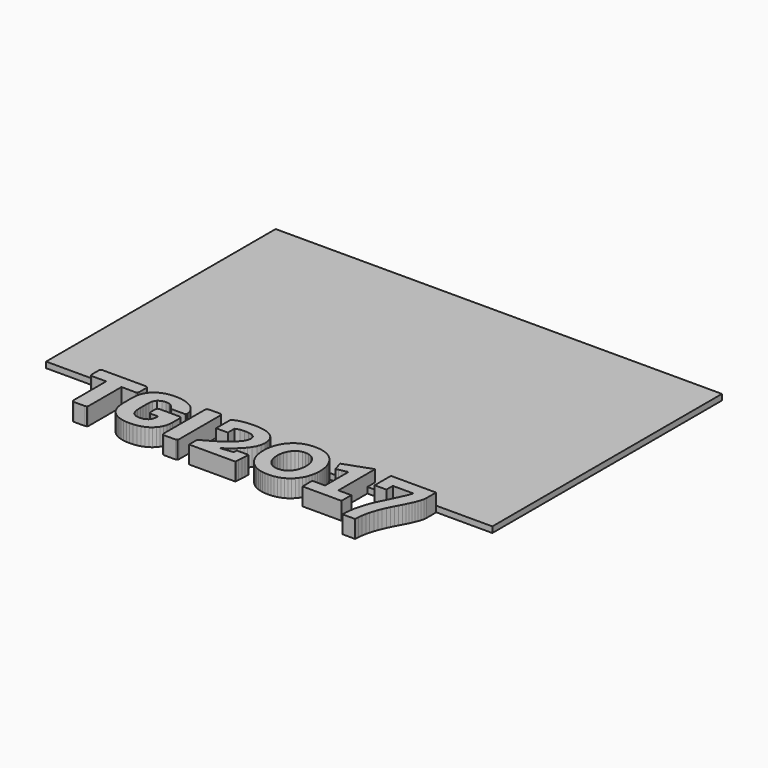
from build123d import *

# Parameters (mm, degrees)
F0_W     = 55.88
F0_H     = 1.5
F1_DEPTH = 1
F3_DEPTH = 3


with BuildPart() as f1:
    # F0 (on Top) → F1 (new body)
    with BuildSketch(Plane.XY):
        Polygon((38.1, -24.5), (38.1, 24.5), (-38.1, 24.5), (-38.1, -24.5), (-27.94, -24.5), (-27.94, -23), (27.94, -23), (27.94, -24.5), align=None)
        with Locations((0, -23.75)):
            Rectangle(F0_W, F0_H)
        with Locations((0, -25.25)):
            Rectangle(F0_W, F0_H)
    extrude(amount=F1_DEPTH)

    # F2 (on Top) → F3 (join)
    with BuildSketch(Plane.XY):
        Polygon((-25.8621358056, -33.9583140133), (-25.7601548056, -34.2036272133), (-25.5065866056, -34.2986994133), (-25.0325464056, -34.2986994133), (-24.5585062056, -34.2986994133), (-24.0844406056, -34.2986994133), (-23.6090542056, -34.2986994133), (-23.3568576056, -34.2036272133), (-23.2549020056, -33.9583140133), (-23.2549020056, -33.7695412133), (-23.2549020056, -33.2596362133), (-23.2549020056, -32.5596122133), (-23.2549020056, -31.8609598133), (-23.2549020056, -31.1622820133), (-23.2549020056, -30.4636296133), (-23.2549020056, -29.7635802133), (-23.2549020056, -29.0649024133), (-23.2549020056, -28.3662500133), (-23.2549020056, -27.6675976133), (-23.2549020056, -27.1563464133), (-23.2549020056, -26.9689198133), (-23.0840108056, -26.9689198133), (-22.6540396056, -26.9689198133), (-22.0532280056, -26.9689198133), (-21.4524164056, -26.9689198133), (-21.0238168056, -26.9689198133), (-20.8516048056, -26.9689198133), (-20.5993828056, -26.8724506133), (-20.4974526056, -26.6271628133), (-20.4974526056, -26.3873868133), (-20.4974526056, -25.8623434133), (-20.4974526056, -25.3373000133), (-20.4974526056, -25.0988956133), (-20.5993828056, -24.8453528133), (-20.8516048056, -24.7433718133), (-21.4703234056, -24.7433718133), (-22.0876958056, -24.7433718133), (-22.7050428056, -24.7433718133), (-23.3237868056, -24.7433718133), (-23.9411592056, -24.7433718133), (-24.5585062056, -24.7433718133), (-25.1758786056, -24.7433718133), (-25.7945972056, -24.7433718133), (-26.4119696056, -24.7433718133), (-27.0293420056, -24.7433718133), (-27.6466890056, -24.7433718133), (-28.2640614056, -24.7433718133), (-28.5176042056, -24.8453528133), (-28.6195852056, -25.0988956133), (-28.6195852056, -25.3373000133), (-28.6195852056, -25.8623434133), (-28.6195852056, -26.3873868133), (-28.6195852056, -26.6271628133), (-28.5176042056, -26.8724506133), (-28.2640614056, -26.9689198133), (-28.0945418056, -26.9689198133), (-27.6632244056, -26.9689198133), (-27.0637844056, -26.9689198133), (-26.4629474056, -26.9689198133), (-26.0343732056, -26.9689198133), (-25.8621358056, -26.9689198133), (-25.8621358056, -27.1563464133), (-25.8621358056, -27.6675976133), (-25.8621358056, -28.3662500133), (-25.8621358056, -29.0649024133), (-25.8621358056, -29.7635802133), (-25.8621358056, -30.4636296133), (-25.8621358056, -31.1622820133), (-25.8621358056, -31.8609598133), (-25.8621358056, -32.5596122133), (-25.8621358056, -33.2596362133), (-25.8621358056, -33.7695412133), align=None)
        Polygon((-19.3481280056, -33.1080998133), (-18.9870924056, -33.4732502133), (-18.5406112056, -33.7984718133), (-18.0486640056, -34.0506430133), (-17.5277608056, -34.2325578133), (-16.9875536056, -34.3510742133), (-16.4391168056, -34.4158442133), (-15.8879114056, -34.4351228133), (-15.2994696056, -34.4117040133), (-14.7165396056, -34.3359104133), (-14.1446586056, -34.1981154133), (-13.5948502056, -33.9914102133), (-13.1483436056, -33.7557490133), (-12.7377018056, -33.4622520133), (-12.3766408056, -33.1108430133), (-12.0720948056, -32.7084308133), (-11.8254354056, -32.2454142133), (-11.6573128056, -31.7493268133), (-11.5622152056, -31.2325892133), (-11.5332846056, -30.7089174133), (-11.5332846056, -30.4608864133), (-11.5332846056, -29.9165390133), (-11.5332846056, -29.3722170133), (-11.5332846056, -29.1255322133), (-11.6352656056, -28.8733864133), (-11.8874368056, -28.7700084133), (-12.4662012056, -28.7700084133), (-13.0436448056, -28.7700084133), (-13.6210376056, -28.7700084133), (-14.1998020056, -28.7700084133), (-14.7771948056, -28.7700084133), (-15.3559592056, -28.7700084133), (-15.6081558056, -28.8733864133), (-15.7101114056, -29.1255322133), (-15.7101114056, -29.2908862133), (-15.7101114056, -29.6574590133), (-15.7101114056, -30.0226602133), (-15.7101114056, -30.1907574133), (-15.6081558056, -30.4429540133), (-15.3559592056, -30.5449096133), (-15.1658148056, -30.5449096133), (-14.7482642056, -30.5449096133), (-14.3307136056, -30.5449096133), (-14.1405184056, -30.5449096133), (-14.1405184056, -30.6675662133), (-14.1405184056, -30.7901974133), (-14.2383846056, -31.4461524133), (-14.6049320056, -31.9918714133), (-15.1947454056, -32.3019292133), (-15.8603270056, -32.3873748133), (-16.5355606056, -32.2909056133), (-17.1060954056, -31.9284730133), (-17.4271514056, -31.3304046133), (-17.5263892056, -30.6537740133), (-17.5373874056, -30.0612174133), (-17.5401306056, -29.4672892133), (-17.5373874056, -28.8788728133), (-17.5263892056, -28.2931996133), (-17.4257798056, -27.6427818133), (-17.1005836056, -27.0764126133), (-16.5383292056, -26.7429106133), (-15.8879114056, -26.6547218133), (-15.3559592056, -26.7098398133), (-14.8708954056, -26.9275686133), (-14.3445058056, -27.5821520133), (-14.2011736056, -27.7254334133), (-13.9903028056, -27.7736934133), (-13.4611446056, -27.7736934133), (-12.9319864056, -27.7736934133), (-12.4028028056, -27.7736934133), (-11.8736446056, -27.7736934133), (-11.6628246056, -27.6855046133), (-11.5746358056, -27.4732876133), (-11.7358496056, -26.7525372133), (-12.1134206056, -26.1158862133), (-12.4262724056, -25.7714114133), (-12.7886796056, -25.4792606133), (-13.1828114056, -25.2339474133), (-13.6017336056, -25.0300108133), (-14.1515674056, -24.8329576133), (-14.7220768056, -24.7020206133), (-15.3022128056, -24.6289956133), (-15.8879114056, -24.6069484133), (-16.4377198056, -24.6262524133), (-16.9834134056, -24.6923940133), (-17.5208774056, -24.8095134133), (-18.0403836056, -24.9900312133), (-18.5309592056, -25.2381130133), (-18.9802090056, -25.5550542133), (-19.3398730056, -25.9064378133), (-19.6416758056, -26.3088246133), (-19.8731714056, -26.7539342133), (-20.0358076056, -27.2293714133), (-20.1336230056, -27.7226902133), (-20.1736026056, -28.2243148133), (-20.1859724056, -28.8527108133), (-20.1873948056, -29.4797098133), (-20.1859724056, -30.1011970133), (-20.1736026056, -30.7226842133), (-20.1308798056, -31.2353324133), (-20.0344106056, -31.7397002133), (-19.8745430056, -32.2289042133), (-19.6471876056, -32.6891522133), align=None)
        Polygon((-10.4721996056, -33.9583140133), (-10.3702186056, -34.1967184133), (-10.1318142056, -34.2986994133), (-9.6426102056, -34.2986994133), (-9.1547778056, -34.2986994133), (-8.6669708056, -34.2986994133), (-8.1791384056, -34.2986994133), (-7.9338506056, -34.1967184133), (-7.8387530056, -33.9583140133), (-7.8387530056, -33.7902168133), (-7.8387530056, -33.3244062133), (-7.8387530056, -32.6905492133), (-7.8387530056, -32.0566414133), (-7.8387530056, -31.4227336133), (-7.8387530056, -30.7888258133), (-7.8387530056, -30.1549434133), (-7.8387530056, -29.5210356133), (-7.8387530056, -28.8871278133), (-7.8387530056, -28.2532200133), (-7.8387530056, -27.6193630133), (-7.8387530056, -26.9868268133), (-7.8387530056, -26.3529190133), (-7.8387530056, -25.7176396133), (-7.8387530056, -25.2518798133), (-7.8387530056, -25.0851542133), (-7.9338506056, -24.8384948133), (-8.1791384056, -24.7433718133), (-8.6669708056, -24.7433718133), (-9.1547778056, -24.7433718133), (-9.6426102056, -24.7433718133), (-10.1318142056, -24.7433718133), (-10.3702186056, -24.8384948133), (-10.4721996056, -25.0851542133), (-10.4721996056, -25.2518798133), (-10.4721996056, -25.7176396133), (-10.4721996056, -26.3515474133), (-10.4721996056, -26.9868268133), (-10.4721996056, -27.6193630133), (-10.4721996056, -28.2546170133), (-10.4721996056, -28.8871278133), (-10.4721996056, -29.5210356133), (-10.4721996056, -30.1549434133), (-10.4721996056, -30.7888258133), (-10.4721996056, -31.4227336133), (-10.4721996056, -32.0566414133), (-10.4721996056, -32.6905492133), (-10.4721996056, -33.3244062133), (-10.4721996056, -33.7902168133), align=None)
        Polygon((-5.8530064056, -34.0258526133), (-5.8530064056, -34.2986994133), (-5.6779750056, -34.2986994133), (-5.1929112056, -34.2986994133), (-4.5342384056, -34.2986994133), (-3.8741686056, -34.2986994133), (-3.2155212056, -34.2986994133), (-2.5566452056, -34.2986994133), (-1.8967532056, -34.2986994133), (-1.2378772056, -34.2986994133), (-0.5779852056, -34.2986994133), (0.0808907944, -34.2986994133), (0.7410367944, -34.2986994133), (1.3996587944, -34.2986994133), (1.8820047944, -34.2986994133), (2.0582807944, -34.2986994133), (2.0694567944, -34.1126698133), (2.0981587944, -33.6455130133), (2.1367667944, -32.9923012133), (2.1768987944, -32.3391402133), (2.2043307944, -31.8705864133), (2.2155067944, -31.6845568133), (1.7151267944, -31.6845568133), (1.2134767944, -31.6845568133), (0.7133507944, -31.6845568133), (0.2117007944, -31.6845568133), (0.1939207944, -31.9891028133), (0.1771567944, -32.2950458133), (0.0298367944, -32.3115558133), (-0.3366852056, -32.3556502133), (-0.8507812056, -32.4176770133), (-1.3648772056, -32.4783068133), (-1.7341932056, -32.5210296133), (-1.8802432056, -32.5389620133), (-1.9145332056, -32.4865618133), (-1.5424232056, -32.2371592133), (-1.1799652056, -31.9766822133), (-0.8246192056, -31.7038608133), (-0.4799412056, -31.4199650133), (-0.1451692056, -31.1223278133), (0.1758867944, -30.8122446133), (0.4844967944, -30.4898170133), (0.7781207944, -30.1522002133), (1.1819807944, -29.6051096133), (1.5111647944, -29.0098098133), (1.7344307944, -28.3690186133), (1.8144407944, -27.6937596133), (1.7839607944, -27.1866486133), (1.6821067944, -26.6877672133), (1.4961787944, -26.2151240133), (1.2177947944, -25.7893184133), (0.8594007944, -25.4282574133), (0.4390307944, -25.1416184133), (-0.0212172056, -24.9252612133), (-0.5048332056, -24.7681622133), (-1.0024192056, -24.6592978133), (-1.5066092056, -24.5890414133), (-2.0151172056, -24.5518558133), (-2.5236252056, -24.5394352133), (-2.9688872056, -24.5476902133), (-3.4125236056, -24.5739030133), (-3.8548646056, -24.6207406133), (-4.2944624056, -24.6896508133), (-4.7298946056, -24.7847230133), (-5.1571226056, -24.9087512133), (-5.5732762056, -25.0644786133), (-5.9742914056, -25.2546230133), (-5.9742914056, -25.4764920133), (-5.9742914056, -26.0346062133), (-5.9742914056, -26.8145640133), (-5.9742914056, -27.5945472133), (-5.9742914056, -28.1512898133), (-5.9742914056, -28.3745050133), (-5.4740384056, -28.3745050133), (-4.9724392056, -28.3745050133), (-4.4722370056, -28.3745050133), (-3.9706124056, -28.3745050133), (-3.9706124056, -28.1471496133), (-3.9706124056, -27.6510368133), (-3.9706124056, -27.1521808133), (-3.9706124056, -26.9275686133), (-3.2374922056, -26.7015848133), (-2.4725712056, -26.6313030133), (-1.8276652056, -26.6629768133), (-1.1979992056, -26.7938884133), (-0.6508832056, -27.1218786133), (-0.4332052056, -27.7116920133), (-0.5048332056, -28.2325698133), (-0.7060012056, -28.7176336133), (-0.9996252056, -29.1544628133), (-1.3564952056, -29.5417112133), (-1.7918512056, -29.9578902133), (-2.2452412056, -30.3520220133), (-2.6092232056, -30.6289836133), (-2.9838732056, -30.8880636133), (-3.3670576056, -31.1374662133), (-3.7528836056, -31.3800108133), (-4.2683004056, -31.6914402133), (-4.7891528056, -31.9918714133), (-5.3183364056, -32.2812536133), (-5.8530064056, -32.5568690133), (-5.8530064056, -32.8283442133), (-5.8530064056, -33.4277842133), align=None)
        Polygon((2.9815707944, -28.9284790133), (2.9650607944, -29.4190546133), (2.9815707944, -29.9110526133), (3.0338947944, -30.4002312133), (3.1263507944, -30.8839234133), (3.2627487944, -31.3565920133), (3.4418187944, -31.8140968133), (3.6678787944, -32.2509514133), (3.9366107944, -32.6629648133), (4.2467447944, -33.0447014133), (4.5939627944, -33.3905478133), (4.9810587944, -33.6923506133), (5.4014287944, -33.9459188133), (5.8479607944, -34.1471122133), (6.3163367944, -34.2973278133), (6.7961427944, -34.3979118133), (7.2835687944, -34.4557984133), (7.7742967944, -34.4737054133), (8.2665487944, -34.4557984133), (8.7529587944, -34.3979118133), (9.2337807944, -34.2973278133), (9.7008867944, -34.1471122133), (10.1489427944, -33.9459188133), (10.5690587944, -33.6923506133), (10.9564087944, -33.3905478133), (11.3036267944, -33.0447014133), (11.6137607944, -32.6629648133), (11.8824927944, -32.2509514133), (12.1082987944, -31.8140968133), (12.2873687944, -31.3565920133), (12.4224967944, -30.8839234133), (12.5149527944, -30.4002312133), (12.5685467944, -29.9110526133), (12.5853107944, -29.4190546133), (12.5685467944, -28.9284790133), (12.5149527944, -28.4392750133), (12.4224967944, -27.9555828133), (12.2873687944, -27.4829142133), (12.1082987944, -27.0254348133), (11.8824927944, -26.5885802133), (11.6137607944, -26.1765414133), (11.3036267944, -25.7948302133), (10.9564087944, -25.4489330133), (10.5690587944, -25.1457586133), (10.1489427944, -24.8935874133), (9.7008867944, -24.6910224133), (9.2337807944, -24.5421784133), (8.7529587944, -24.4401974133), (8.2665487944, -24.3837078133), (7.7742967944, -24.3658008133), (7.2835687944, -24.3837078133), (6.7961427944, -24.4401974133), (6.3163367944, -24.5421784133), (5.8479607944, -24.6910224133), (5.4014287944, -24.8935874133), (4.9810587944, -25.1457586133), (4.5939627944, -25.4489330133), (4.2467447944, -25.7948302133), (3.9366107944, -26.1765414133), (3.6678787944, -26.5885802133), (3.4418187944, -27.0254348133), (3.2627487944, -27.4829142133), (3.1263507944, -27.9555828133), (3.0338947944, -28.4392750133), align=None)
        Polygon((5.3531687944, -29.9868208133), (5.3173547944, -29.4190546133), (5.3518987944, -28.8540824133), (5.4661987944, -28.2987114133), (5.6742247944, -27.7709502133), (5.9802947944, -27.2941414133), (6.3371647944, -26.9289402133), (6.7709967944, -26.6602336133), (7.2576607944, -26.5045062133), (7.7661687944, -26.4576686133), (8.2759467944, -26.5045062133), (8.7654047944, -26.6602336133), (9.2007607944, -26.9303118133), (9.5614407944, -27.2941414133), (9.8703047944, -27.7695278133), (10.0811247944, -28.2959428133), (10.1969487944, -28.8527108133), (10.2330167944, -29.4190546133), (10.1969487944, -29.9854492133), (10.0826487944, -30.5407948133), (9.8758927944, -31.0685814133), (9.5700767944, -31.5453902133), (9.2116827944, -31.9091690133), (8.7791207944, -32.1792726133), (8.2927107944, -32.3350000133), (7.7839487944, -32.3818630133), (7.2741707944, -32.3350000133), (6.7849667944, -32.1792726133), (6.3496107944, -31.9091690133), (5.9884227944, -31.5453902133), (5.6798127944, -31.0699530133), (5.4689927944, -30.5421664133), align=None, mode=Mode.SUBTRACT)
        Polygon((18.1263207944, -32.2082286133), (17.9693487944, -32.2082286133), (17.9693487944, -32.0331972133), (17.9693487944, -31.5536452133), (17.9693487944, -30.9004334133), (17.9693487944, -30.2472724133), (17.9693487944, -29.5940606133), (17.9693487944, -28.9408996133), (17.9693487944, -28.2863162133), (17.9693487944, -27.6331298133), (17.9693487944, -26.9799434133), (17.9693487944, -26.3267570133), (17.9693487944, -25.6721736133), (17.9693487944, -25.0190126133), (17.9693487944, -24.5394352133), (17.9693487944, -24.3658008133), (17.8118687944, -24.4209442133), (17.3904827944, -24.5724806133), (16.8100927944, -24.7792112133), (16.2314807944, -24.9872880133), (15.6510907944, -25.1940186133), (15.0727327944, -25.4006984133), (14.4936127944, -25.6074036133), (13.9134767944, -25.8141342133), (13.4918367944, -25.9643498133), (13.3348647944, -26.0208140133), (13.4049687944, -26.2702420133), (13.5606707944, -26.8228698133), (13.7151027944, -27.3740752133), (13.7867307944, -27.6248748133), (13.9233827944, -27.5959442133), (14.2662827944, -27.5242400133), (14.7460887944, -27.4236814133), (15.2253867944, -27.3244436133), (15.5672707944, -27.2514186133), (15.7036687944, -27.2238596133), (15.7036687944, -27.3919568133), (15.7036687944, -27.8467184133), (15.7036687944, -28.4696026133), (15.7036687944, -29.0924614133), (15.7036687944, -29.7153456133), (15.7036687944, -30.3382298133), (15.7036687944, -30.9624602133), (15.7036687944, -31.5853698133), (15.7036687944, -32.0387090133), (15.7036687944, -32.2082286133), (15.1593467944, -32.2082286133), (14.6150247944, -32.2082286133), (14.0707027944, -32.2082286133), (13.5263807944, -32.2082286133), (13.5263807944, -32.7304780133), (13.5263807944, -33.2541498133), (13.5263807944, -33.7764246133), (13.5263807944, -34.2986994133), (14.0803547944, -34.2986994133), (14.6355987944, -34.2986994133), (15.1898267944, -34.2986994133), (15.7450707944, -34.2986994133), (16.2987907944, -34.2986994133), (16.8542887944, -34.2986994133), (17.4097867944, -34.2986994133), (17.9637607944, -34.2986994133), (18.5190047944, -34.2986994133), (19.0727247944, -34.2986994133), (19.6284767944, -34.2986994133), (20.1821967944, -34.2986994133), (20.1821967944, -33.7764246133), (20.1821967944, -33.2541498133), (20.1821967944, -32.7304780133), (20.1821967944, -32.2082286133), (20.0239547944, -32.2082286133), (19.6297467944, -32.2082286133), (19.0755187944, -32.2082286133), (18.5230687944, -32.2082286133), align=None)
        Polygon((24.3439867944, -37.2614824133), (24.8883087944, -37.2614824133), (24.9129467944, -36.5931322133), (24.9860987944, -35.9289222133), (25.1031927944, -35.2702240133), (25.2629587944, -34.6211524133), (25.4491407944, -33.9955250133), (25.6612307944, -33.3768064133), (25.8997367944, -32.7690606133), (26.1684687944, -32.1723892133), (26.4275487944, -31.6459742133), (26.6922167944, -31.1209308133), (26.9637427944, -30.6000530133), (27.2406027944, -30.0818930133), (27.4570107944, -29.6712512133), (27.6650367944, -29.2564692133), (27.8634107944, -28.8375470133), (28.0511167944, -28.4131130133), (28.2202807944, -27.9817702133), (28.3691247944, -27.5421724133), (28.4806307944, -27.0915764133), (28.5304147944, -26.6313030133), (28.5304147944, -26.1131430133), (28.5304147944, -25.5950084133), (28.5304147944, -25.0754768133), (28.5304147944, -24.5573676133), (28.3582027944, -24.5573676133), (27.8883027944, -24.5573676133), (27.2459367944, -24.5573676133), (26.6053487944, -24.5573676133), (25.9632367944, -24.5573676133), (25.3208707944, -24.5573676133), (24.6787587944, -24.5573676133), (24.0366467944, -24.5573676133), (23.3958047944, -24.5573676133), (22.7536927944, -24.5573676133), (22.1115807944, -24.5573676133), (21.4692147944, -24.5573676133), (20.9977907944, -24.5573676133), (20.8271027944, -24.5573676133), (20.8271027944, -24.8040270133), (20.8271027944, -25.4241426133), (20.8271027944, -26.2908922133), (20.8271027944, -27.1590896133), (20.8271027944, -27.7778336133), (20.8271027944, -28.0258646133), (21.3287527944, -28.0258646133), (21.8304027944, -28.0258646133), (22.3307827944, -28.0258646133), (22.8324327944, -28.0258646133), (22.8324327944, -27.8095074133), (22.8324327944, -27.3368642133), (22.8324327944, -26.8627986133), (22.8324327944, -26.6492100133), (23.2718527944, -26.6492100133), (23.7115267944, -26.6492100133), (24.1524707944, -26.6492100133), (24.5918907944, -26.6492100133), (25.0315647944, -26.6492100133), (25.4725087944, -26.6492100133), (25.9121827944, -26.6492100133), (26.3516027944, -26.6492100133), (26.1189387944, -27.2679540133), (25.8626527944, -27.8783922133), (25.5896027944, -28.4819978133), (25.3056307944, -29.0800662133), (24.9998147944, -29.7098084133), (24.6939987944, -30.3396014133), (24.3866587944, -30.9693690133), (24.0780487944, -31.5977396133), (23.7912827944, -32.2330190133), (23.5418547944, -32.8820652133), (23.3226527944, -33.5435320133), (23.1285967944, -34.2118822133), (22.9480027944, -34.9629094133), (22.8171927944, -35.7235886133), (22.7371827944, -36.4897796133), (22.7094967944, -37.2614824133), (23.2553427944, -37.2614824133), (23.7996647944, -37.2614824133), align=None)
    extrude(amount=F3_DEPTH)


solid = f1.part
